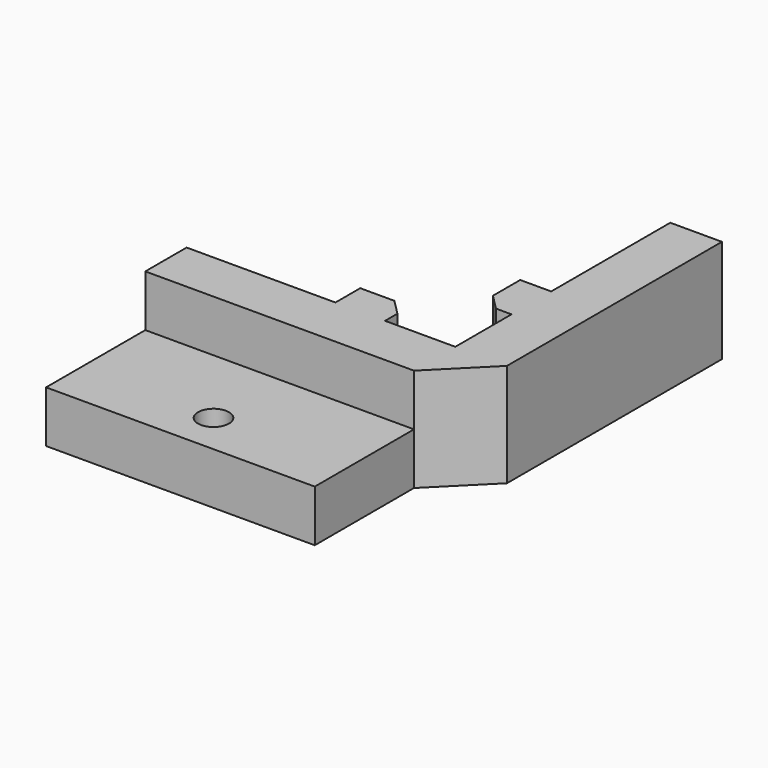
from build123d import *

# Parameters (mm, degrees)
F2_DEPTH = 10
F1_W     = 26
F1_H     = 12
F3_DEPTH = 5
F4_D     = 3


with BuildPart() as f2:
    # F1 (on Top) → F2 (new body)
    with BuildSketch(Plane.XY):
        Polygon((20.9, 30.9), (20.9, 16.5), (17.9, 16.5), (17.9, 13.2), (19.4, 11.7), (20.9, 11.7), (20.9, 4.9), (14.1, 4.9), (14.1, 6.4), (12.6, 7.9), (9.3, 7.9), (9.3, 4.9), (-5.1, 4.9), (-5.1, -0.1), (20.9, -0.1), (25.9, 4.9), (25.9, 30.9), align=None)
    extrude(amount=F2_DEPTH)

    # F1 (on Top) → F3 (join)
    with BuildSketch(Plane.XY):
        with Locations((7.9, -6.1)):
            Rectangle(F1_W, F1_H)
    extrude(amount=F3_DEPTH)

    # F4 (through all)
    with Locations(Plane(origin=(0, 0, 0), x_dir=(1, 0, 0), z_dir=(0, 0, -1))):
        with Locations((7.8999996185, 8.1)):
            Hole(F4_D / 2)


solid = f2.part
